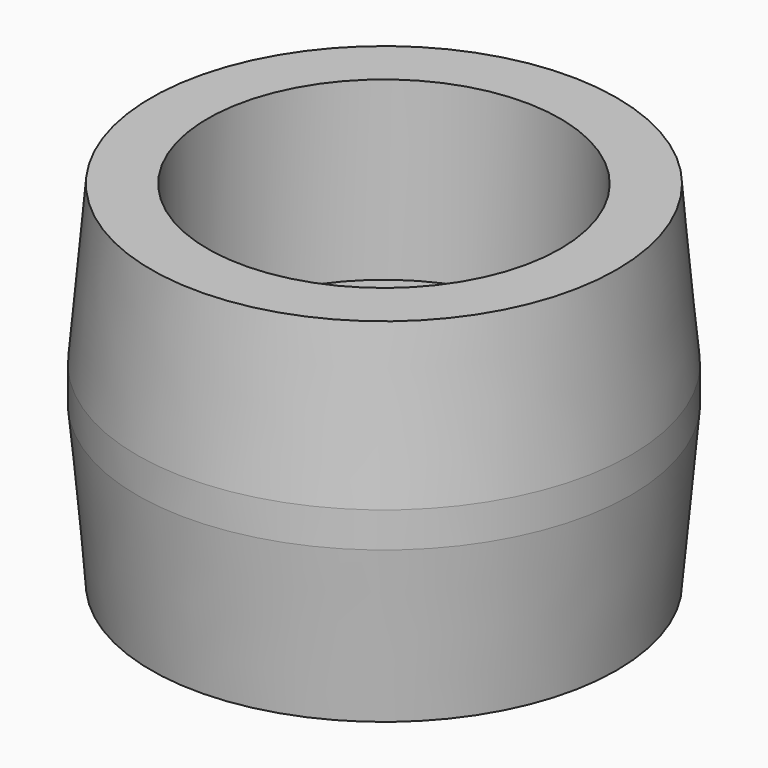
from build123d import *

# Parameters (mm, degrees)
F0_R     = 31.75
F0_R_2   = 3.175
F1_DEPTH = 31.75
F0_R_3   = 44.45
F2_DEPTH = 63.5
F3_SIZE2 = 28.575
F3_SIZE  = 2.54
F4_SIZE2 = 28.575
F4_SIZE  = 2.54


with BuildPart() as f1:
    # F0 (on Top) → F1 (new body)
    with BuildSketch(Plane.XY):
        Circle(F0_R)
        with BuildLine():
            ThreePointArc((3.175, -22.225), (-2.2450640303, -24.4700640303), (0, -19.05))
            ThreePointArc((0, -19.05), (2.2450640303, -19.9799359697), (3.175, -22.225))
        make_face(mode=Mode.SUBTRACT)
        with Locations((-22.225, 0)):
            Circle(F0_R_2, mode=Mode.SUBTRACT)
        with BuildLine():
            ThreePointArc((0, 13.9065), (9.8333804526, 9.8333804526), (13.9065, 0))
            ThreePointArc((13.9065, 0), (9.8333804526, -9.8333804526), (0, -13.9065))
            ThreePointArc((0, -13.9065), (-9.8333804526, -9.8333804526), (-13.9065, 0))
            ThreePointArc((-13.9065, 0), (-9.8333804526, 9.8333804526), (0, 13.9065))
        make_face(mode=Mode.SUBTRACT)
        with BuildLine():
            ThreePointArc((25.4, 0), (22.225, -3.175), (19.05, 0))
            ThreePointArc((19.05, 0), (22.225, 3.175), (25.4, 0))
        make_face(mode=Mode.SUBTRACT)
        with BuildLine():
            ThreePointArc((3.175, 22.225), (2.2450640303, 19.9799359697), (0, 19.05))
            ThreePointArc((0, 19.05), (-2.2450640303, 24.4700640303), (3.175, 22.225))
        make_face(mode=Mode.SUBTRACT)
    extrude(amount=F1_DEPTH)

    # F0 (on Top) → F2 (join)
    with BuildSketch(Plane.XY):
        Circle(F0_R_3)
        Circle(F0_R, mode=Mode.SUBTRACT)
    extrude(amount=F2_DEPTH)

    # F3
    f3_edges = [f1.edges().sort_by_distance(p)[0] for p in [
        (-44.45, 0, 63.5),
    ]]
    f3_side = f1.faces().sort_by_distance((-43.192764, 0, 63.5))[0]
    chamfer(f3_edges, length=F3_SIZE, length2=F3_SIZE2, reference=f3_side)

    # F4
    f4_edges = [f1.edges().sort_by_distance(p)[0] for p in [
        (0, -25.4, 0),
        (-25.4, 0, 0),
        (-13.9065, 0, 0),
        (19.05, 0, 0),
        (-3.175, 22.225, 0),
        (-44.45, 0, 0),
    ]]
    f4_side = f1.faces().sort_by_distance((0, -26.657236, 0))[0]
    chamfer(f4_edges, length=F4_SIZE, length2=F4_SIZE2, reference=f4_side)


solid = f1.part
